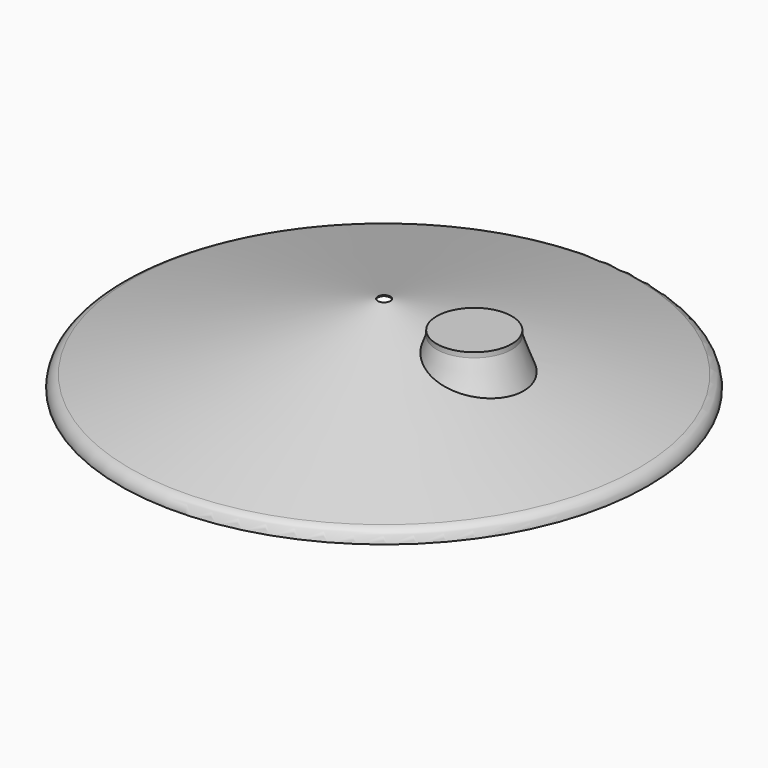
from build123d import *


with BuildPart() as f1:
    # F0 (on Front) → F1 (revolve)
    with BuildSketch(Plane.XZ):
        with BuildLine():
            Line((875, 0), (878, 0))
            ThreePointArc((878, 0), (869.114194, 26.176741), (846.129219, 41.534811))
            Line((846.129219, 41.534811), (20.776457, 262.687417))
            Line((20.776457, 262.687417), (20, 259.789639))
            Line((20, 259.789639), (845.352762, 38.637033))
            ThreePointArc((845.352762, 38.637033), (866.734134, 24.350457), (875, 0))
        make_face()
    revolve(axis=Axis((0, 0, 145.343527), (0, 0, 1)))

    # F2 (on Front) → F3 (revolve, cut)
    with BuildSketch(Plane.XZ):
        Polygon((425, 252), (300, 252), (300, 0), (516.720499, 0), align=None)
    revolve(axis=Axis((300, 0, 126), (0, 0, -1)), mode=Mode.SUBTRACT)

    # F4 (on Front) → F5 (revolve)
    with BuildSketch(Plane.XZ):
        Polygon((516.720499, 0), (425, 252), (425, 268.631919), (300, 268.631919), (300, 250.631919), (421.24123, 250.631919), (512.961729, -1.368081), align=None)
    revolve(axis=Axis((300, 0, 259.631919), (0, 0, 1)))

    # F6 (on Front) → F7 (revolve, cut)
    with BuildSketch(Plane.XZ):
        Polygon((544.77936, -66.781566), (544.77936, 119.175433), (60, 249.071671), (60, -66.781566), align=None)
    revolve(axis=Axis((0, 0, 147.505298), (0, 0, 1)), mode=Mode.SUBTRACT)


solid = f1.part
